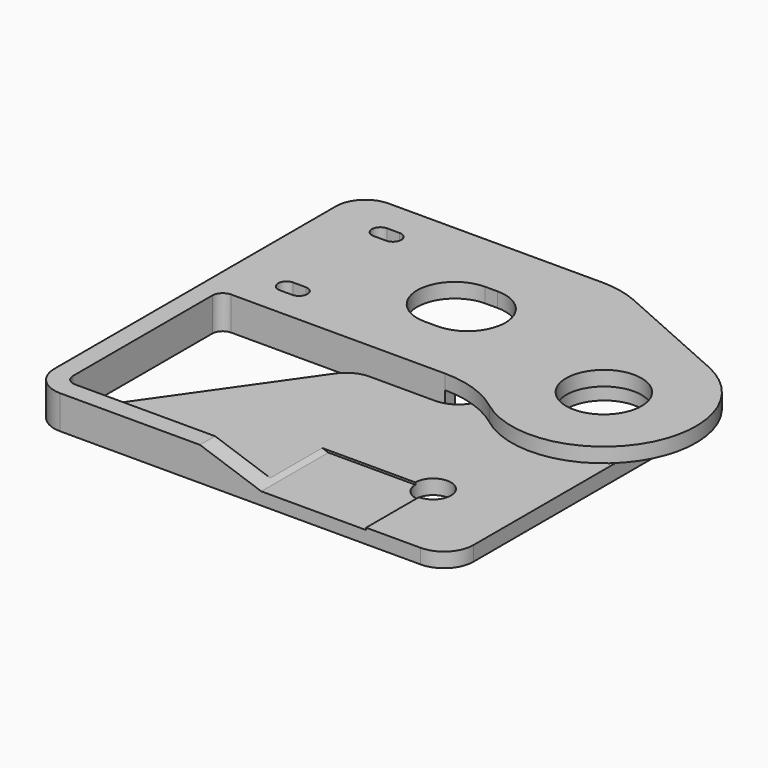
from build123d import *

# Parameters (mm, degrees)
SKETCH018_R     = 4.25
SKETCH018_R_2   = 9
SKETCH018_W     = 6
SKETCH018_H     = 3
PAD011_DEPTH    = 8
SKETCH020_W     = 56.576859
SKETCH020_H     = 40
POCKET007_DEPTH = 4.5
POCKET008_DEPTH = 4.5
SKETCH021_R     = 9
PAD012_DEPTH    = 3.5
POCKET009_DEPTH = 20.001


with BuildPart() as part:
    # Sketch018 → Pad011 (new body)
    with BuildSketch(Plane.XY):
        with BuildLine():
            Line((20, 58), (20, -13))
            ThreePointArc((13, -20), (17.949747, -17.949747), (20, -13))
            Line((13, -20), (-73, -20))
            ThreePointArc((-80, -13), (-77.949747, -17.949747), (-73, -20))
            Line((-80, -13), (-80, 71))
            ThreePointArc((-73, 78), (-77.949747, 75.949747), (-80, 71))
            Line((-73, 78), (-22, 78))
            Line((-22, 31), (-22, 78))
            Line((-73, 31), (-22, 31))
            ThreePointArc((-73, 31), (-74.767767, 30.267767), (-75.5, 28.5))
            Line((-75.5, 28.5), (-75.5, -13))
            ThreePointArc((-75.5, -13), (-73.751764, -15.384292), (-70.95212, -14.433941))
            Line((-70.95212, -14.433941), (-43.329649, 25.015035))
            ThreePointArc((-37.595585, 28), (-40.827825, 27.209076), (-43.329649, 25.015035))
            Line((-37.595585, 28), (-22, 28))
            ThreePointArc((-22, 28), (-17.050253, 30.050253), (-15, 35))
            Line((-15, 35), (-15, 58))
            ThreePointArc((-8, 65), (-12.949747, 62.949747), (-15, 58))
            Line((-8, 65), (13, 65))
            ThreePointArc((20, 58), (17.949747, 62.949747), (13, 65))
        make_face()
        Circle(SKETCH018_R, mode=Mode.SUBTRACT)
        with Locations((4, 46)):
            Circle(SKETCH018_R_2, mode=Mode.SUBTRACT)
        with BuildLine():
            ThreePointArc((-38, 63), (-47, 54), (-38, 45))
            Line((-38, 45), (-35, 45))
            ThreePointArc((-35, 45), (-26, 54), (-35, 63))
            Line((-35, 63), (-38, 63))
        make_face(mode=Mode.SUBTRACT)
        with BuildLine():
            ThreePointArc((-67, 70), (-69, 68), (-67, 66))
            Line((-67, 66), (-64, 66))
            ThreePointArc((-64, 66), (-62, 68), (-64, 70))
            Line((-64, 70), (-67, 70))
        make_face(mode=Mode.SUBTRACT)
        with BuildLine():
            ThreePointArc((-67, 42), (-69, 40), (-67, 38))
            Line((-67, 38), (-64, 38))
            ThreePointArc((-64, 38), (-62, 40), (-64, 42))
            Line((-64, 42), (-67, 42))
        make_face(mode=Mode.SUBTRACT)
        with Locations((6, 34.5)):
            Rectangle(SKETCH018_W, SKETCH018_H, mode=Mode.SUBTRACT)
        with Locations((-6, 34.5)):
            Rectangle(SKETCH018_W, SKETCH018_H, mode=Mode.SUBTRACT)
    extrude(amount=PAD011_DEPTH)

    # Sketch020 → Pocket007 (cut)
    with BuildSketch(Plane.XY):
        with Locations((-47.711571, 54)):
            Rectangle(SKETCH020_W, SKETCH020_H)
    extrude(amount=POCKET007_DEPTH, mode=Mode.SUBTRACT)

    # Sketch019 (on Face5 of Pocket007) → Pocket008 (cut)
    with BuildSketch(Plane.XY.offset(8)):
        Polygon((-73, -15.5), (-25.471525, -15.5), (-25.471525, -22.26432), (22.647079, -22.26432), (22.647079, 72.273804), (-17.92174, 72.273804), (-17.92174, 30.299976), (-42.694947, 30.299976), (-73, -13), align=None)
    extrude(amount=-POCKET008_DEPTH, mode=Mode.SUBTRACT)

    # Sketch021 (on Face38 of Pocket008) → Pad012 (join)
    with BuildSketch(Plane.XY.offset(8)):
        with BuildLine():
            ThreePointArc((-7.496085, 26.109881), (24.755897, 32.411198), (14.768623, 63.718565))
            Line((-13.056022, 76.099882), (14.768623, 63.718565))
            ThreePointArc((-13.056022, 76.099882), (-17.428206, 77.519728), (-22, 78))
            Line((-22, 78), (-22, 31))
            ThreePointArc((-7.496085, 26.109881), (-14.346948, 29.744572), (-22, 31))
        make_face()
        with Locations((5.824645, 43.618683)):
            Circle(SKETCH021_R, mode=Mode.SUBTRACT)
    extrude(amount=-PAD012_DEPTH)

    # Sketch022 → Pocket009 (cut, through all)
    with BuildSketch(Plane.XZ):
        Polygon((0, 3), (-25, 3), (-40.931572, 8.439757), (-40.931572, 13.093841), (-0.040726, 13.093841), align=None)
    extrude(amount=POCKET009_DEPTH, mode=Mode.SUBTRACT)


with BuildPart() as part_1:
    # Body008 placement: moved
    add(part.part.moved(Location((0, 0, 0.5))))


solid = part_1.part
